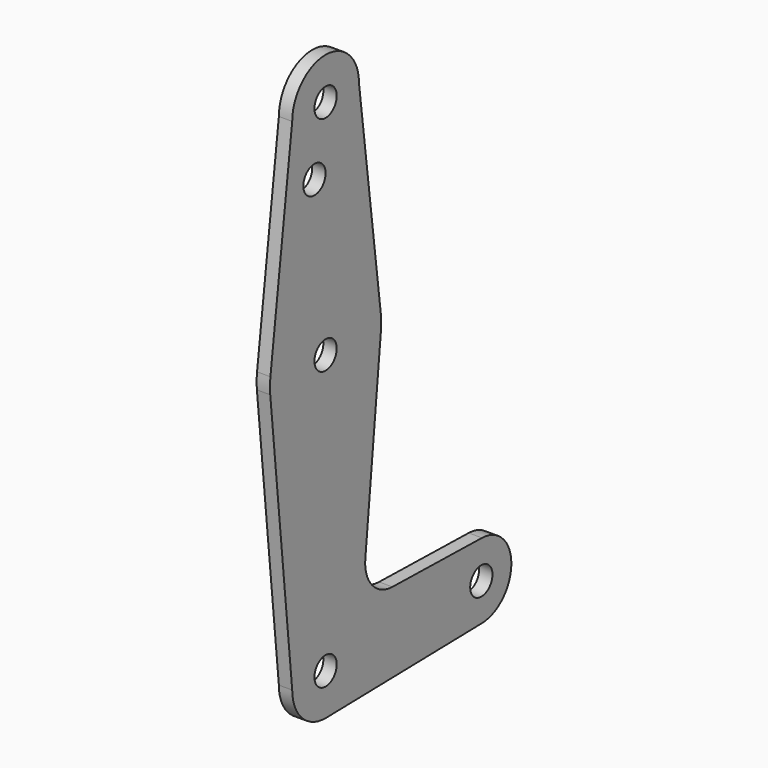
from build123d import *

# Parameters (mm, degrees)
F0_R     = 3.175
F1_DEPTH = 3.048


with BuildPart() as f1:
    # F0 (on Right) → F1 (new body)
    with BuildSketch(Plane.YZ):
        with BuildLine():
            ThreePointArc((-9.525, 114.3), (0, 104.775), (9.525, 114.3))
            ThreePointArc((9.525, 114.3), (0, 123.825), (-9.525, 114.3))
        make_face()
        with Locations((0, 114.3)):
            Circle(F0_R, mode=Mode.SUBTRACT)
        with BuildLine():
            Line((15.747457, 65.508289), (9.525, 114.3))
            ThreePointArc((9.525, 114.3), (0, 104.775), (-9.525, 114.3))
            Line((-9.525, 114.3), (-15.747457, 65.508289))
            ThreePointArc((-15.747457, 65.508289), (0, 79.375), (15.747457, 65.508289))
        make_face()
        with Locations((-3.175, 100.0252)):
            Circle(F0_R, mode=Mode.SUBTRACT)
        with BuildLine():
            ThreePointArc((15.875, 63.5), (15.843082, 64.506168), (15.747457, 65.508289))
            ThreePointArc((15.747457, 65.508289), (0, 79.375), (-15.747457, 65.508289))
            ThreePointArc((-15.747457, 65.508289), (-15.873668, 63.705667), (-15.794203, 61.90038))
            ThreePointArc((-15.794203, 61.90038), (0, 47.625), (15.794203, 61.90038))
            ThreePointArc((15.794203, 61.90038), (15.854788, 62.699171), (15.875, 63.5))
        make_face()
        with Locations((0, 63.5)):
            Circle(F0_R, mode=Mode.SUBTRACT)
        with BuildLine():
            ThreePointArc((15.794203, 61.90038), (0, 47.625), (-15.794203, 61.90038))
            Line((-15.794203, 61.90038), (-9.525, 0))
            ThreePointArc((-9.525, 0), (0, 9.525), (9.525, 0))
            ThreePointArc((9.525, 0), (6.806972, -6.662639), (0.204107, -9.522813))
            Line((0.204107, -9.522813), (44.633696, -8.570532))
            ThreePointArc((44.633696, -8.570532), (35.8775, 0), (44.633696, 8.570532))
            Line((44.633696, 8.570532), (19.07401, 9.118365))
            ThreePointArc((19.07401, 9.118365), (13.289518, 11.799349), (11.334634, 17.867829))
            Line((11.334634, 17.867829), (15.794203, 61.90038))
        make_face()
        with BuildLine():
            ThreePointArc((9.525, 0), (0, 9.525), (-9.525, 0))
            ThreePointArc((-9.525, 0), (-6.662639, -6.806972), (0.204107, -9.522813))
            ThreePointArc((0.204107, -9.522813), (6.806972, -6.662639), (9.525, 0))
        make_face()
        Circle(F0_R, mode=Mode.SUBTRACT)
        with BuildLine():
            ThreePointArc((44.633696, 8.570532), (35.8775, 0), (44.633696, -8.570532))
            ThreePointArc((44.633696, -8.570532), (50.576275, -5.996375), (53.0225, 0))
            ThreePointArc((53.0225, 0), (50.576275, 5.996375), (44.633696, 8.570532))
        make_face()
        with Locations((44.45, 0)):
            Circle(F0_R, mode=Mode.SUBTRACT)
    extrude(amount=F1_DEPTH)


solid = f1.part
